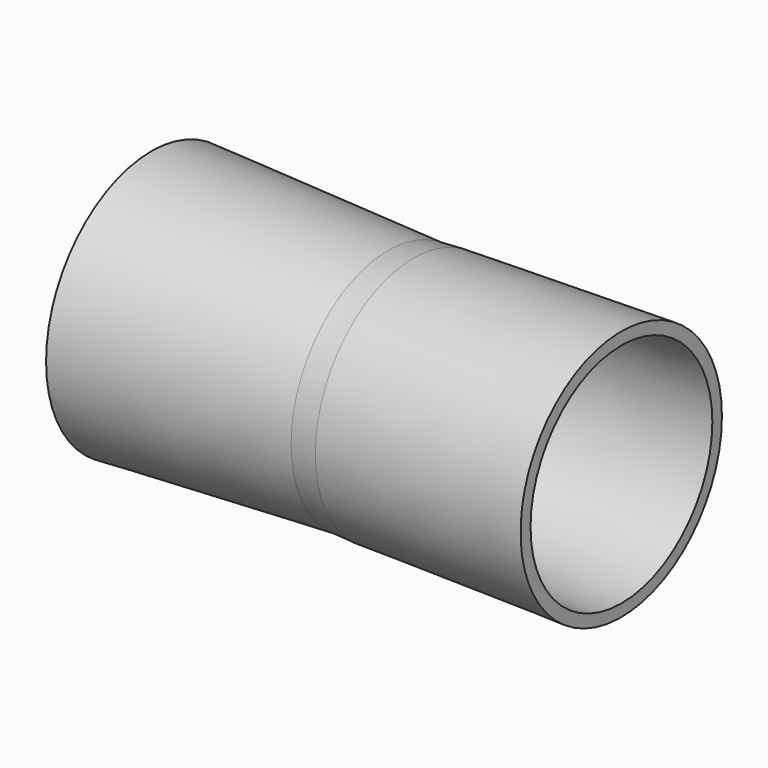
from build123d import *


with BuildPart() as f1:
    # F0 (on Top) → F1 (revolve)
    with BuildSketch(Plane.XY):
        Polygon((-21.911336, 20.3), (-16.919177, 21.3), (23.913032, 22.3), (23.875954, 24.699714), (-16.919177, 24.069382), (-21.911336, 23.789484), (-68.335834, 25.860459), (-67.865634, 23.789158), (-67.865634, 22.35), align=None)
    revolve(axis=Axis((-2.12107, 0, 0), (1, 0, 0)))


solid = f1.part
